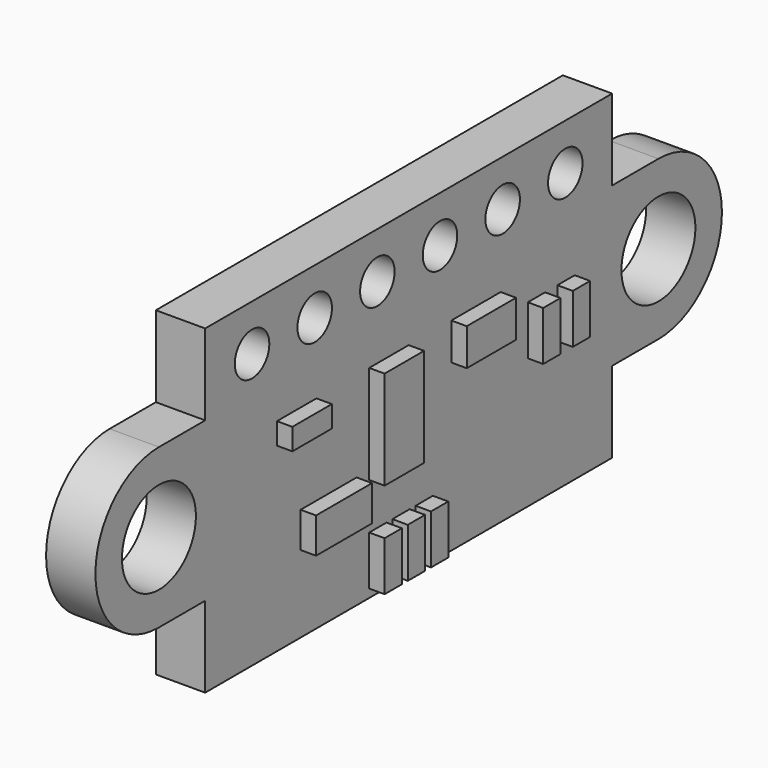
from build123d import *

# Parameters (mm, degrees)
PAD055_DEPTH            = 1.6
SKETCH137_R             = 1.5
POCKET066_DEPTH         = 1.6
SKETCH138_W             = 4.4
SKETCH138_H             = 2.35
PAD056_DEPTH            = 1
SKETCH139_W             = 2.27
SKETCH139_H             = 1.15
SKETCH139_W_2           = 1.6
SKETCH139_H_2           = 3.2
SKETCH139_W_3           = 2
SKETCH139_H_3           = 1.2
SKETCH139_W_4           = 0.7
SKETCH139_H_4           = 1.6
SKETCH139_H_5           = 0.7
PAD057_DEPTH            = 0.5
SKETCH140_R             = 0.7
POCKET067_DEPTH         = 1.6
BODY032_ROLL_ANGLE      = -180
BODY032_PLACEMENT_ANGLE = 90


with BuildPart() as part:
    # Sketch136 → Pad055 (new body)
    with BuildSketch(Plane.XZ):
        Polygon((-8.25, -5.2), (8.25, -5.2), (8.25, -2.575), (12.75, -2.575), (12.75, 2.575), (8.25, 2.575), (8.25, 5.2), (-8.25, 5.2), (-8.25, 2.575), (-12.75, 2.575), (-12.75, -2.575), (-8.25, -2.575), align=None)
    extrude(amount=PAD055_DEPTH)

    # Sketch137 (on Face14 of Pad055) → Pocket066 (cut)
    with BuildSketch(Plane.XZ.offset(1.6)):
        with Locations((-10.125, 0)):
            Circle(SKETCH137_R)
        with Locations((10.125, 0)):
            Circle(SKETCH137_R)
        with BuildLine():
            Line((-12.755, 2.575), (-12.755, -2.575))
            Line((-12.755, -2.575), (-10.125, -2.575))
            ThreePointArc((-10.125, 2.575), (-12.7, 0), (-10.125, -2.575))
            Line((-10.125, 2.575), (-12.755, 2.575))
        make_face()
        with BuildLine():
            Line((10.125, -2.575), (12.755, -2.575))
            Line((12.755, -2.575), (12.755, 2.575))
            Line((12.755, 2.575), (10.125, 2.575))
            ThreePointArc((10.125, -2.575), (12.7, 0), (10.125, 2.575))
        make_face()
    extrude(amount=-POCKET066_DEPTH, mode=Mode.SUBTRACT)

    # Sketch138 (on Face4 of Pocket066) → Pad056 (join)
    with BuildSketch(Plane.XZ.offset(1.6)):
        with Locations((0, 2.475)):
            Rectangle(SKETCH138_W, SKETCH138_H)
    extrude(amount=PAD056_DEPTH)

    # Sketch139 (on Face2 of Pad056) → Pad057 (join)
    with BuildSketch(Plane(origin=(0, 0, 0), x_dir=(1, 0, 0), z_dir=(0, 1, 0))):
        with Locations((-3.245, -2.125)):
            Rectangle(SKETCH139_W, SKETCH139_H)
        with Locations((-0.8, -0.23)):
            Rectangle(SKETCH139_W_2, SKETCH139_H_2)
        with Locations((2.73, 0.77)):
            Rectangle(SKETCH139_W_3, SKETCH139_H_3)
        with Locations((-1.25, -4.13)):
            Rectangle(SKETCH139_W_4, SKETCH139_H_4)
        with Locations((-0.31, -4.13)):
            Rectangle(SKETCH139_W_4, SKETCH139_H_4)
        with Locations((0.63, -4.13)):
            Rectangle(SKETCH139_W_4, SKETCH139_H_4)
        with Locations((-4.54, 1.02)):
            Rectangle(SKETCH139_W_2, SKETCH139_H_5)
        with Locations((5.18, -0.17)):
            Rectangle(SKETCH139_W_4, SKETCH139_H_4)
        with Locations((6.38, -0.17)):
            Rectangle(SKETCH139_W_4, SKETCH139_H_4)
    extrude(amount=PAD057_DEPTH)

    # Sketch140 (on Face2 of Pad057) → Pocket067 (cut)
    with BuildSketch(Plane(origin=(0, 0, 0), x_dir=(1, 0, 0), z_dir=(0, 1, 0))):
        with Locations((-6.35, 3.7)):
            Circle(SKETCH140_R)
        with Locations((-3.81, 3.7)):
            Circle(SKETCH140_R)
        with Locations((-1.27, 3.7)):
            Circle(SKETCH140_R)
        with Locations((1.27, 3.7)):
            Circle(SKETCH140_R)
        with Locations((3.81, 3.7)):
            Circle(SKETCH140_R)
        with Locations((6.35, 3.7)):
            Circle(SKETCH140_R)
    extrude(amount=-POCKET067_DEPTH, mode=Mode.SUBTRACT)


with BuildPart() as part_1:
    # Body032 roll: moved
    add(part.part.rotate(Axis((0, 0, 0), (1, 0, 0)), BODY032_ROLL_ANGLE))


with BuildPart() as part_2:
    # Body032 placement: moved
    add(part_1.part.moved(Location((17.5, -0.75, 41))).rotate(Axis((17.5, -0.75, 41), (0, 0, 1)), BODY032_PLACEMENT_ANGLE))


solid = part_2.part
